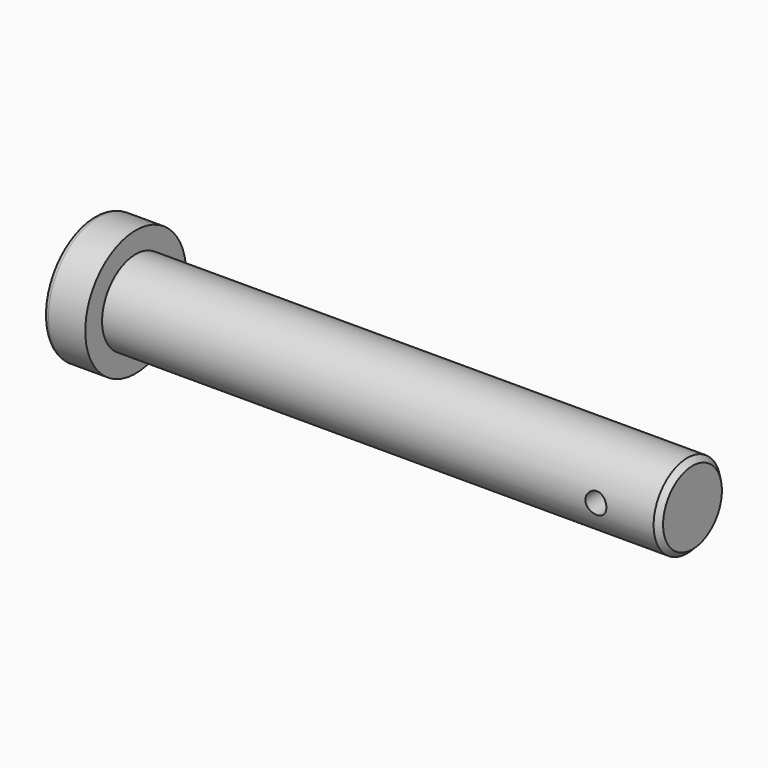
from build123d import *

# Parameters (mm, degrees)
F0_R      = 12
F1_DEPTH  = 8
F2_R      = 1
F3_R      = 8
F4_DEPTH  = 105
F6_R      = 8
F7_DEPTH  = 1
F8_SIZE   = 1
F9_R      = 2
F10_DEPTH = 12.5


with BuildPart() as f1:
    # F0 (on Right) → F1 (new body)
    with BuildSketch(Plane.YZ):
        Circle(F0_R)
    extrude(amount=F1_DEPTH)

    # F2
    f2_edges = [f1.edges().sort_by_distance(p)[0] for p in [
        (0, -12, 0),
    ]]
    fillet(f2_edges, radius=F2_R)

    # F3 (on face) → F4 (join)
    with BuildSketch(Plane.YZ.offset(8)):
        Circle(F3_R)
    extrude(amount=F4_DEPTH)

    # F6 (on face) → F7 (join)
    with BuildSketch(Plane.YZ.offset(113)):
        Circle(F6_R)
    extrude(amount=F7_DEPTH)

    # F8
    f8_edges = [f1.edges().sort_by_distance(p)[0] for p in [
        (114, -8, 0),
    ]]
    chamfer(f8_edges, length=F8_SIZE)

    # F9 (on Front) → F10 (cut, symmetric)
    with BuildSketch(Plane.XZ):
        with Locations((102, 0)):
            Circle(F9_R)
    extrude(amount=F10_DEPTH, both=True, mode=Mode.SUBTRACT)


solid = f1.part
